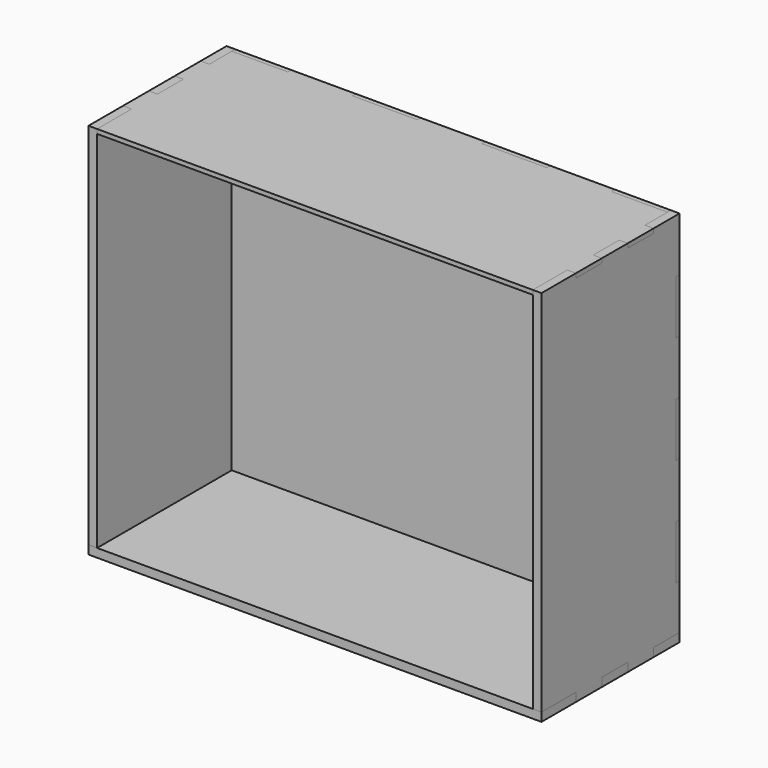
from build123d import *

# Parameters (mm, degrees)
F1_DEPTH = 8
F3_DEPTH = 8
F6_DEPTH = 4
F8_DEPTH = 4


with BuildPart() as f1:
    # F0 (on Top) → F1 (new body)
    with BuildSketch(Plane.XY):
        Polygon((0, 40), (0, 0), (420, 0), (420, 40), (412, 40), (412, 70), (420, 70), (420, 100), (412, 100), (412, 130), (420, 130), (420, 160), (360, 160), (360, 156), (300, 156), (300, 160), (240, 160), (240, 156), (180, 156), (180, 160), (120, 160), (120, 156), (60, 156), (60, 160), (0, 160), (0, 130), (8, 130), (8, 100), (0, 100), (0, 70), (8, 70), (8, 40), align=None)
    extrude(amount=F1_DEPTH)


with BuildPart() as f3:
    # F2 (on face) → F3 (new body)
    with BuildSketch(Plane(origin=(0, 0, 0), x_dir=(0, -1, 0), z_dir=(-1, 0, 0))):
        Polygon((-40, 8), (0, 8), (0, 350), (-40, 350), (-40, 346), (-70, 346), (-70, 350), (-100, 350), (-100, 346), (-130, 346), (-130, 350), (-160, 350), (-160, 300), (-156, 300), (-156, 250), (-160, 250), (-160, 200), (-156, 200), (-156, 150), (-160, 150), (-160, 100), (-156, 100), (-156, 50), (-160, 50), (-160, 8), (-130, 8), (-130, 0), (-100, 0), (-100, 8), (-70, 8), (-70, 0), (-40, 0), align=None)
    extrude(amount=-F3_DEPTH)


with BuildPart() as f4_1:
    # F4: copy of F3
    add(f3.part.moved(Location((412, 0, 0))))


with BuildPart() as f6:
    # F5 (on face) → F6 (new body)
    with BuildSketch(Plane(origin=(0, 160, 0), x_dir=(-1, 0, 0), z_dir=(0, 1, 0))):
        Polygon((-60, 0), (-60, 8), (-8, 8), (-8, 50), (0, 50), (0, 100), (-8, 100), (-8, 150), (0, 150), (0, 200), (-8, 200), (-8, 250), (0, 250), (0, 300), (-8, 300), (-8, 350), (-60, 350), (-60, 346), (-120, 346), (-120, 350), (-180, 350), (-180, 346), (-240, 346), (-240, 350), (-300, 350), (-300, 346), (-360, 346), (-360, 350), (-412, 350), (-412, 300), (-420, 300), (-420, 250), (-412, 250), (-412, 200), (-420, 200), (-420, 150), (-412, 150), (-412, 100), (-420, 100), (-420, 50), (-412, 50), (-412, 8), (-360, 8), (-360, 0), (-300, 0), (-300, 8), (-240, 8), (-240, 0), (-180, 0), (-180, 8), (-120, 8), (-120, 0), align=None)
    extrude(amount=-F6_DEPTH)


with BuildPart() as f8:
    # F7 (on face) → F8 (new body)
    with BuildSketch(Plane.XY.offset(350)):
        Polygon((8, 40), (8, 0), (412, 0), (412, 40), (420, 40), (420, 70), (412, 70), (412, 100), (420, 100), (420, 130), (412, 130), (412, 156), (360, 156), (360, 160), (300, 160), (300, 156), (240, 156), (240, 160), (180, 160), (180, 156), (120, 156), (120, 160), (60, 160), (60, 156), (8, 156), (8, 130), (0, 130), (0, 100), (8, 100), (8, 70), (0, 70), (0, 40), align=None)
    extrude(amount=-F8_DEPTH)


solid = Compound([f1.part, f3.part, f4_1.part, f6.part, f8.part])
